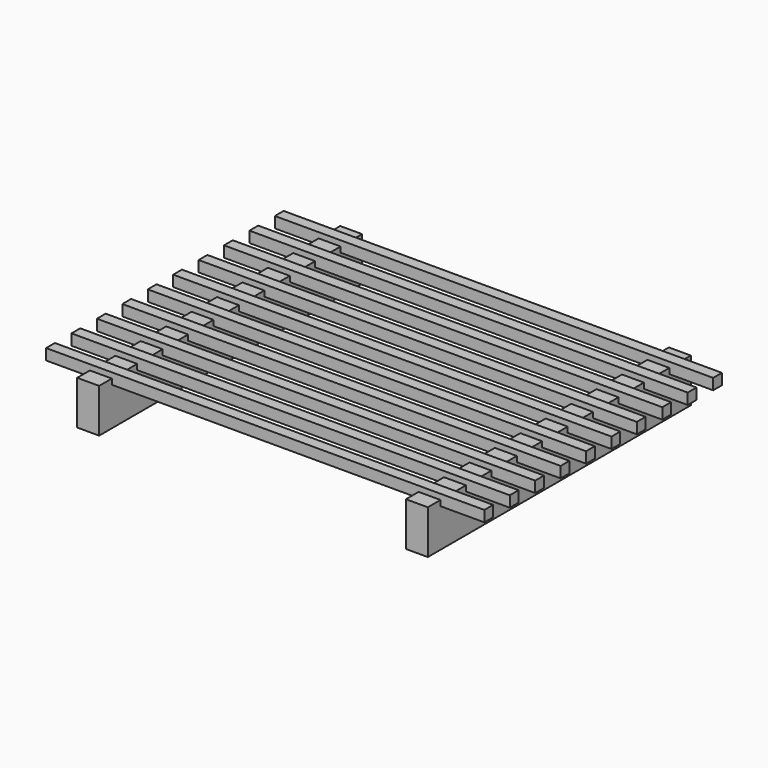
from build123d import *

# Parameters (mm, degrees)
F0_W     = 100
F0_H     = 1500
F1_DEPTH = 200
F3_W     = 50
F3_H     = 50
F4_DEPTH = 2000


with BuildPart() as f1:
    # F0 (on Top) → F1 (new body)
    with BuildSketch(Plane.XY):
        with Locations((50, 750)):
            Rectangle(F0_W, F0_H)
    extrude(amount=F1_DEPTH)


with BuildPart() as f1b:
    # F0 (on Top) → F1, piece 2 (new body)
    with BuildSketch(Plane.XY):
        with Locations((1550, 750)):
            Rectangle(F0_W, F0_H)
    extrude(amount=F1_DEPTH)


with BuildPart() as f4:
    # F3 (on offset) → F4 (new body)
    with BuildSketch(Plane(origin=(-200, 0, 0), x_dir=(0, -1, 0), z_dir=(-1, 0, 0))):
        with Locations((-1402.5, 200)):
            Rectangle(F3_W, F3_H)
    extrude(amount=-F4_DEPTH)


with BuildPart() as f4b:
    # F3 (on offset) → F4, piece 2 (new body)
    with BuildSketch(Plane(origin=(-200, 0, 0), x_dir=(0, -1, 0), z_dir=(-1, 0, 0))):
        with Locations((-1257.5, 200)):
            Rectangle(F3_W, F3_H)
    extrude(amount=-F4_DEPTH)


with BuildPart() as f4c:
    # F3 (on offset) → F4, piece 3 (new body)
    with BuildSketch(Plane(origin=(-200, 0, 0), x_dir=(0, -1, 0), z_dir=(-1, 0, 0))):
        with Locations((-1112.5, 200)):
            Rectangle(F3_W, F3_H)
    extrude(amount=-F4_DEPTH)


with BuildPart() as f4d:
    # F3 (on offset) → F4, piece 4 (new body)
    with BuildSketch(Plane(origin=(-200, 0, 0), x_dir=(0, -1, 0), z_dir=(-1, 0, 0))):
        with Locations((-967.5, 200)):
            Rectangle(F3_W, F3_H)
    extrude(amount=-F4_DEPTH)


with BuildPart() as f4e:
    # F3 (on offset) → F4, piece 5 (new body)
    with BuildSketch(Plane(origin=(-200, 0, 0), x_dir=(0, -1, 0), z_dir=(-1, 0, 0))):
        with Locations((-822.5, 200)):
            Rectangle(F3_W, F3_H)
    extrude(amount=-F4_DEPTH)


with BuildPart() as f4f:
    # F3 (on offset) → F4, piece 6 (new body)
    with BuildSketch(Plane(origin=(-200, 0, 0), x_dir=(0, -1, 0), z_dir=(-1, 0, 0))):
        with Locations((-677.5, 200)):
            Rectangle(F3_W, F3_H)
    extrude(amount=-F4_DEPTH)


with BuildPart() as f4g:
    # F3 (on offset) → F4, piece 7 (new body)
    with BuildSketch(Plane(origin=(-200, 0, 0), x_dir=(0, -1, 0), z_dir=(-1, 0, 0))):
        with Locations((-532.5, 200)):
            Rectangle(F3_W, F3_H)
    extrude(amount=-F4_DEPTH)


with BuildPart() as f4h:
    # F3 (on offset) → F4, piece 8 (new body)
    with BuildSketch(Plane(origin=(-200, 0, 0), x_dir=(0, -1, 0), z_dir=(-1, 0, 0))):
        with Locations((-387.5, 200)):
            Rectangle(F3_W, F3_H)
    extrude(amount=-F4_DEPTH)


with BuildPart() as f4i:
    # F3 (on offset) → F4, piece 9 (new body)
    with BuildSketch(Plane(origin=(-200, 0, 0), x_dir=(0, -1, 0), z_dir=(-1, 0, 0))):
        with Locations((-242.5, 200)):
            Rectangle(F3_W, F3_H)
    extrude(amount=-F4_DEPTH)


with BuildPart() as f4j:
    # F3 (on offset) → F4, piece 10 (new body)
    with BuildSketch(Plane(origin=(-200, 0, 0), x_dir=(0, -1, 0), z_dir=(-1, 0, 0))):
        with Locations((-97.5, 200)):
            Rectangle(F3_W, F3_H)
    extrude(amount=-F4_DEPTH)


solid = Compound([f1.part, f1b.part, f4.part, f4b.part, f4c.part, f4d.part, f4e.part, f4f.part, f4g.part, f4h.part, f4i.part, f4j.part])
